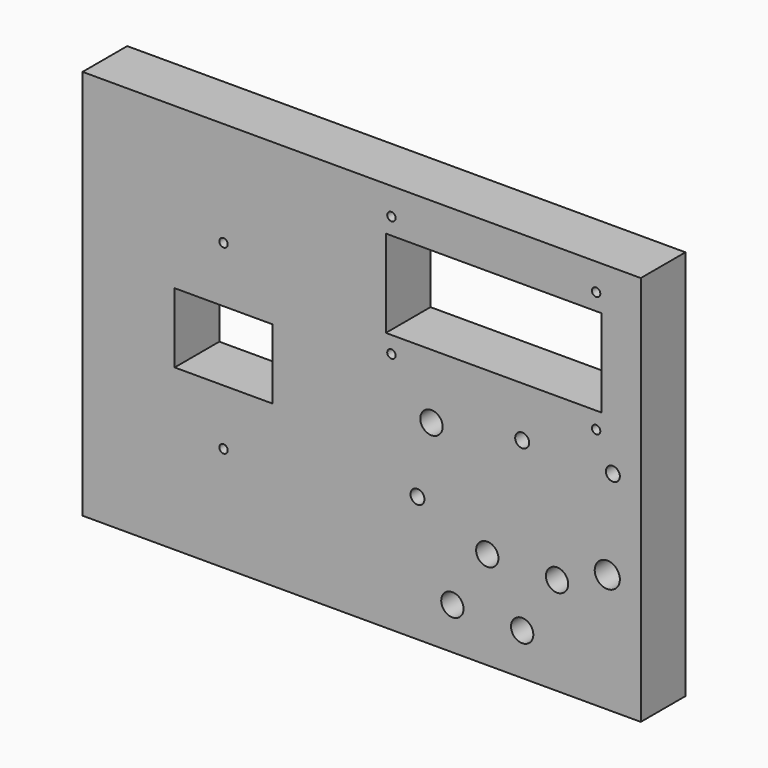
from build123d import *

# Parameters (mm, degrees)
F0_W     = 254
F0_H     = 177.8
F0_R     = 1.905
F0_R_2   = 5.08
F0_R_3   = 3.175
F0_R_4   = 5.715
F0_W_2   = 44.45
F0_H_2   = 31.75
F0_W_3   = 98.2218
F0_H_3   = 39.8018
F1_DEPTH = 25.4


with BuildPart() as f1:
    # F0 (on Front) → F1 (new body)
    with BuildSketch(Plane.XZ):
        with Locations((127, -88.9)):
            Rectangle(F0_W, F0_H)
        with Locations((64.135, -130.175)):
            Circle(F0_R, mode=Mode.SUBTRACT)
        with Locations((168.275, -158.75)):
            Circle(F0_R_2, mode=Mode.SUBTRACT)
        with Locations((200.025, -158.75)):
            Circle(F0_R_2, mode=Mode.SUBTRACT)
        with Locations((152.4, -120.65)):
            Circle(F0_R_3, mode=Mode.SUBTRACT)
        with Locations((184.15, -133.35)):
            Circle(F0_R_2, mode=Mode.SUBTRACT)
        with Locations((215.9, -133.35)):
            Circle(F0_R_2, mode=Mode.SUBTRACT)
        with Locations((238.76, -123.825)):
            Circle(F0_R_4, mode=Mode.SUBTRACT)
        with Locations((64.135, -88.9)):
            Rectangle(F0_W_2, F0_H_2, mode=Mode.SUBTRACT)
        with Locations((64.135, -47.625)):
            Circle(F0_R, mode=Mode.SUBTRACT)
        with Locations((140.5382, -67.31)):
            Circle(F0_R, mode=Mode.SUBTRACT)
        with Locations((158.75, -88.9)):
            Circle(F0_R_2, mode=Mode.SUBTRACT)
        with Locations((200.025, -82.55)):
            Circle(F0_R_3, mode=Mode.SUBTRACT)
        with Locations((241.3, -82.55)):
            Circle(F0_R_3, mode=Mode.SUBTRACT)
        with Locations((233.68, -67.31)):
            Circle(F0_R, mode=Mode.SUBTRACT)
        with Locations((187.1091, -39.7891)):
            Rectangle(F0_W_3, F0_H_3, mode=Mode.SUBTRACT)
        with Locations((140.5382, -12.2682)):
            Circle(F0_R, mode=Mode.SUBTRACT)
        with Locations((233.68, -12.2682)):
            Circle(F0_R, mode=Mode.SUBTRACT)
    extrude(amount=F1_DEPTH)


solid = f1.part
